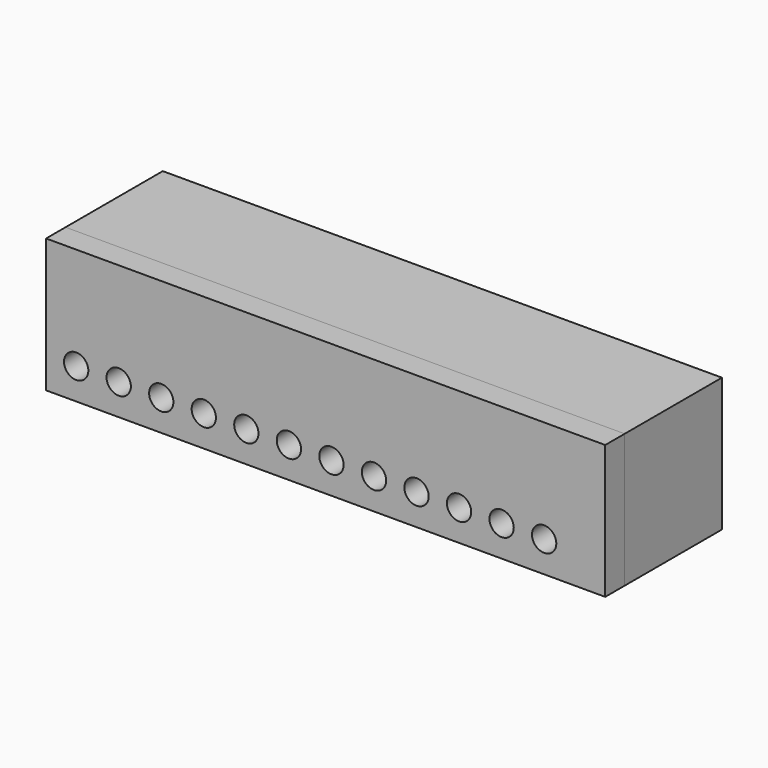
from build123d import *

# Parameters (mm, degrees)
F0_W     = 92
F0_H     = 22
F1_DEPTH = 20
F2_W     = 92
F2_H     = 22
F2_R     = 2
F3_DEPTH = 4
F4_W     = 7.207039
F4_H     = 4.259948
F5_DEPTH = 5


with BuildPart() as f1:
    # F0 (on Front) → F1 (new body)
    with BuildSketch(Plane.XZ):
        with Locations((-25.110383, 24.936029)):
            Rectangle(F0_W, F0_H)
    extrude(amount=F1_DEPTH)

    # F4 (on face) → F5 (join)
    with BuildSketch(Plane(origin=(0, 0, 13.936029), x_dir=(1, 0, 0), z_dir=(0, 0, -1))):
        with Locations((-63.08007, 10.784435)):
            Rectangle(F4_W, F4_H)
    extrude(amount=F5_DEPTH)


with BuildPart() as f3:
    # F2 (on face) → F3 (new body)
    with BuildSketch(Plane.XZ.offset(20)):
        with Locations((-25.110383, 24.936029)):
            Rectangle(F2_W, F2_H)
        with Locations((-66.158772, 19.042049)):
            Circle(F2_R, mode=Mode.SUBTRACT)
        with Locations((-59.158772, 19.042049)):
            Circle(F2_R, mode=Mode.SUBTRACT)
        with Locations((-52.158772, 19.042049)):
            Circle(F2_R, mode=Mode.SUBTRACT)
        with Locations((-45.158772, 19.042049)):
            Circle(F2_R, mode=Mode.SUBTRACT)
        with Locations((-38.158772, 19.042049)):
            Circle(F2_R, mode=Mode.SUBTRACT)
        with Locations((-31.158772, 19.042049)):
            Circle(F2_R, mode=Mode.SUBTRACT)
        with Locations((-24.158772, 19.042049)):
            Circle(F2_R, mode=Mode.SUBTRACT)
        with Locations((-17.158772, 19.042049)):
            Circle(F2_R, mode=Mode.SUBTRACT)
        with Locations((-10.158772, 19.042049)):
            Circle(F2_R, mode=Mode.SUBTRACT)
        with Locations((-3.158772, 19.042049)):
            Circle(F2_R, mode=Mode.SUBTRACT)
        with Locations((3.841228, 19.042049)):
            Circle(F2_R, mode=Mode.SUBTRACT)
        with Locations((10.841228, 19.042049)):
            Circle(F2_R, mode=Mode.SUBTRACT)
    extrude(amount=F3_DEPTH)


solid = Compound([f1.part, f3.part])
